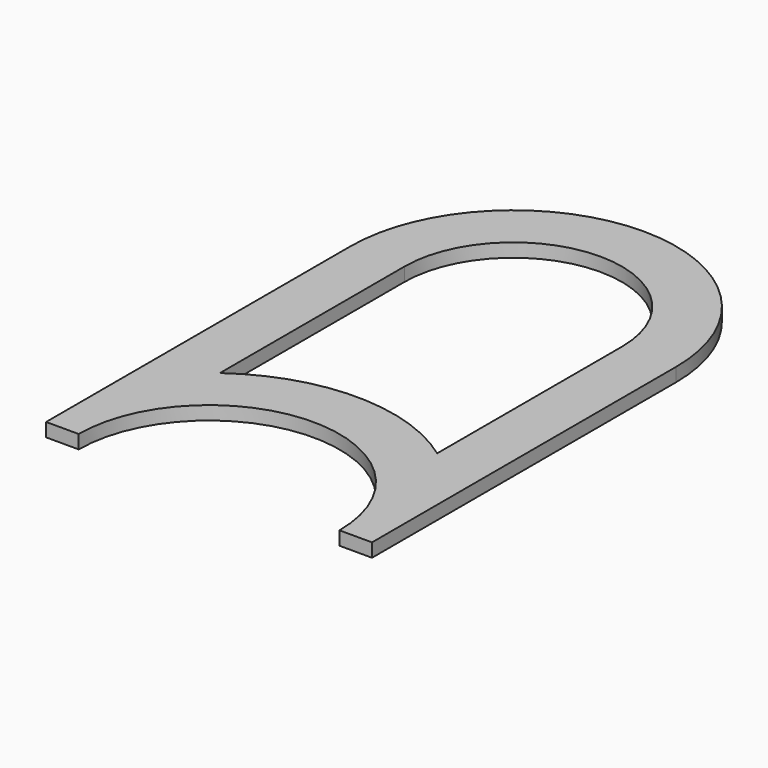
from build123d import *

# Parameters (mm, degrees)
F1_DEPTH = 25


with BuildPart() as f1:
    # F0 (on Top) → F1 (new body)
    with BuildSketch(Plane.XY):
        with BuildLine():
            ThreePointArc((-31.945345, 806.102151), (-244.077379, 718.234185), (-331.945345, 506.102151))
            Line((-331.945345, 506.102151), (-331.945345, -193.897849))
            Line((-331.945345, -193.897849), (-271.945345, -193.897849))
            ThreePointArc((-271.945345, -193.897849), (-31.945345, 46.102151), (208.054655, -193.897849))
            Line((208.054655, -193.897849), (268.054655, -193.897849))
            Line((268.054655, -193.897849), (268.054655, 506.102151))
            ThreePointArc((268.054655, 506.102151), (180.18669, 718.234185), (-31.945345, 806.102151))
        make_face()
        with BuildLine():
            ThreePointArc((-231.945345, 506.102151), (-31.945345, 706.102151), (168.054655, 506.102151))
            Line((168.054655, 506.102151), (168.054655, 81.056693))
            ThreePointArc((168.054655, 81.056693), (-31.945345, 146.102151), (-231.945345, 81.056693))
            Line((-231.945345, 81.056693), (-231.945345, 506.102151))
        make_face(mode=Mode.SUBTRACT)
    extrude(amount=F1_DEPTH)


solid = f1.part
